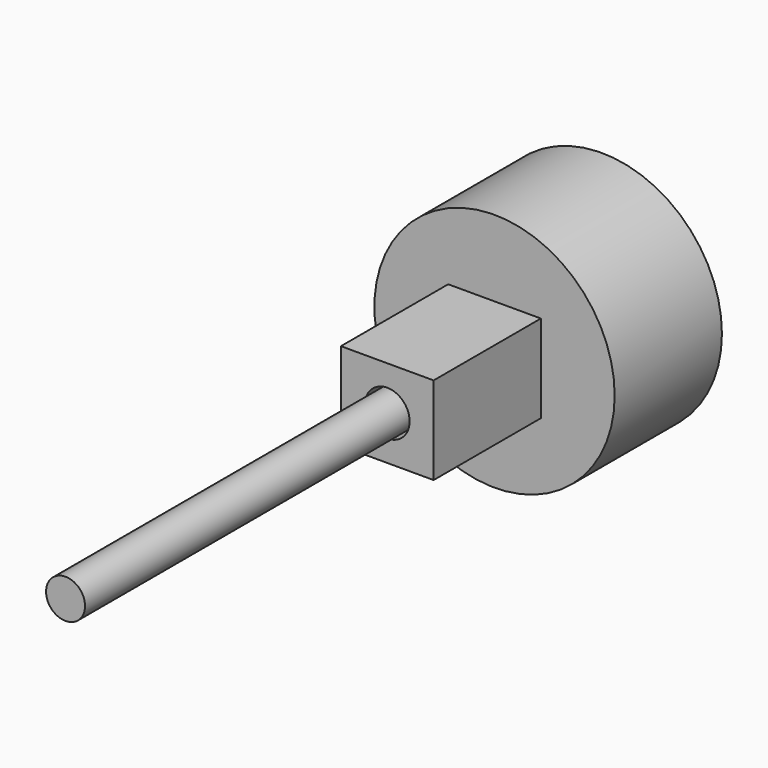
from build123d import *

# Parameters (mm, degrees)
F0_W     = 35.12067
F0_H     = 33.25997
F0_R     = 8.477478
F1_DEPTH = 101.6
F2_R     = 45.532987
F3_DEPTH = 50.8
F4_R     = 7.387342
F5_DEPTH = 254


with BuildPart() as f1:
    # F0 (on Front) → F1 (new body)
    with BuildSketch(Plane.XZ):
        Rectangle(F0_W, F0_H)
        Circle(F0_R, mode=Mode.SUBTRACT)
    extrude(amount=F1_DEPTH)

    # F2 (on Front) → F3 (join)
    with BuildSketch(Plane.XZ):
        Circle(F2_R)
    extrude(amount=F3_DEPTH)

    # F4 (on Front) → F5 (join)
    with BuildSketch(Plane.XZ):
        Circle(F4_R)
    extrude(amount=F5_DEPTH)


solid = f1.part
